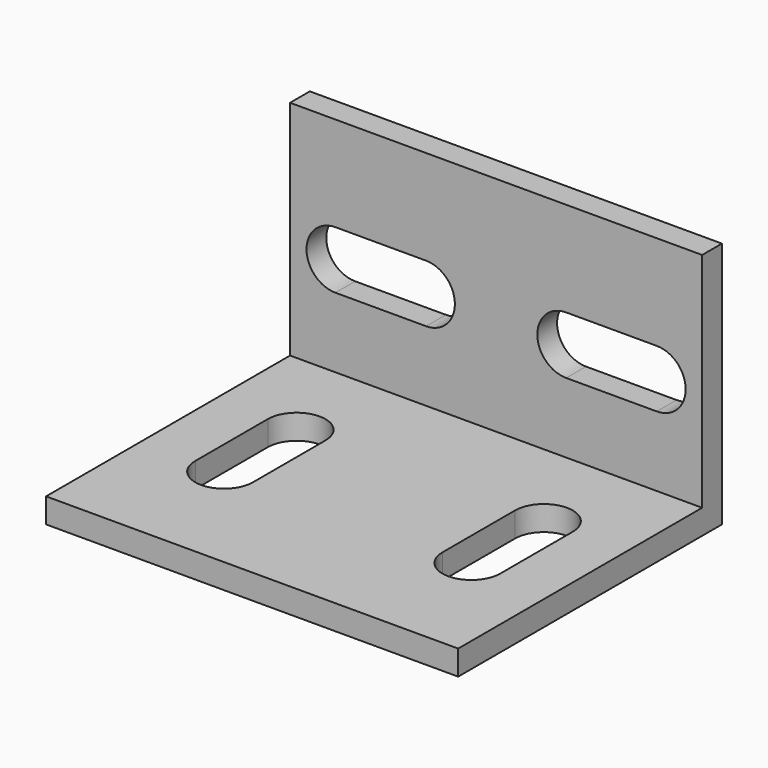
from build123d import *

# Parameters (mm, degrees)
F0_W     = 50
F0_H     = 40
F1_DEPTH = 3
F2_W     = 50
F2_H     = 3
F3_DEPTH = 27
F5_DEPTH = 3


with BuildPart() as f1:
    # F0 (on Top) → F1 (new body)
    with BuildSketch(Plane.XY):
        with Locations((0, 20)):
            Rectangle(F0_W, F0_H)
        with BuildLine():
            Line((-11.5, 25.5), (-11.5, 14.5))
            ThreePointArc((-11.5, 14.5), (-15, 11), (-18.5, 14.5))
            Line((-18.5, 14.5), (-18.5, 25.5))
            ThreePointArc((-18.5, 25.5), (-15, 29), (-11.5, 25.5))
        make_face(mode=Mode.SUBTRACT)
        with BuildLine():
            Line((11.5, 14.5), (11.5, 25.5))
            ThreePointArc((11.5, 25.5), (15, 29), (18.5, 25.5))
            Line((18.5, 25.5), (18.5, 14.5))
            ThreePointArc((18.5, 14.5), (15, 11), (11.5, 14.5))
        make_face(mode=Mode.SUBTRACT)
    extrude(amount=F1_DEPTH)

    # F2 (on face) → F3 (join)
    with BuildSketch(Plane.XY.offset(3)):
        with Locations((0, 38.5)):
            Rectangle(F2_W, F2_H)
    extrude(amount=F3_DEPTH)

    # F4 (on face) → F5 (cut)
    with BuildSketch(Plane.XZ.offset(-37)):
        with BuildLine():
            Line((-19.5, 11.5), (-8.5, 11.5))
            ThreePointArc((-8.5, 11.5), (-5, 15), (-8.5, 18.5))
            Line((-8.5, 18.5), (-19.5, 18.5))
            ThreePointArc((-19.5, 18.5), (-23, 15), (-19.5, 11.5))
        make_face()
        with BuildLine():
            ThreePointArc((8.5, 18.5), (5, 15), (8.5, 11.5))
            Line((8.5, 11.5), (19.5, 11.5))
            ThreePointArc((19.5, 11.5), (23, 15), (19.5, 18.5))
            Line((19.5, 18.5), (8.5, 18.5))
        make_face()
    extrude(amount=-F5_DEPTH, mode=Mode.SUBTRACT)


solid = f1.part
